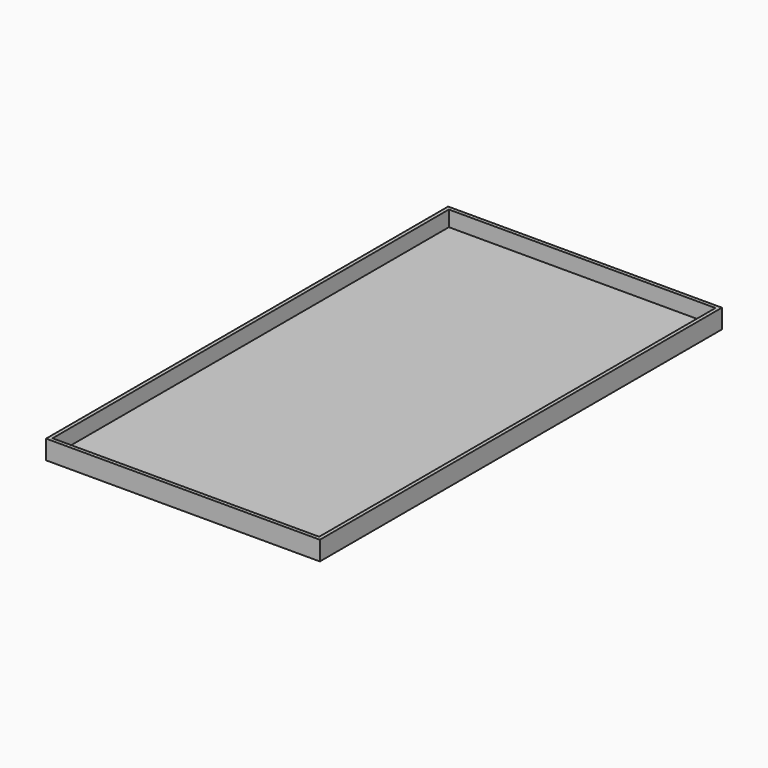
from build123d import *

# Parameters (mm, degrees)
F0_W     = 57.2
F0_H     = 105
F1_DEPTH = 4
F2_W     = 55.7
F2_H     = 103.5
F3_DEPTH = 3.25


with BuildPart() as f1:
    # F0 (on Top) → F1 (new body)
    with BuildSketch(Plane.XY):
        with Locations((-28.6, -2.328537)):
            Rectangle(F0_W, F0_H)
        with Locations((-28.6, -2.328537)):
            Rectangle(F0_W, F0_H)
    extrude(amount=F1_DEPTH)

    # F2 (on face) → F3 (cut)
    with BuildSketch(Plane.XY.offset(4)):
        with Locations((-28.6, -2.328537)):
            Rectangle(F2_W, F2_H)
    extrude(amount=-F3_DEPTH, mode=Mode.SUBTRACT)


solid = f1.part
